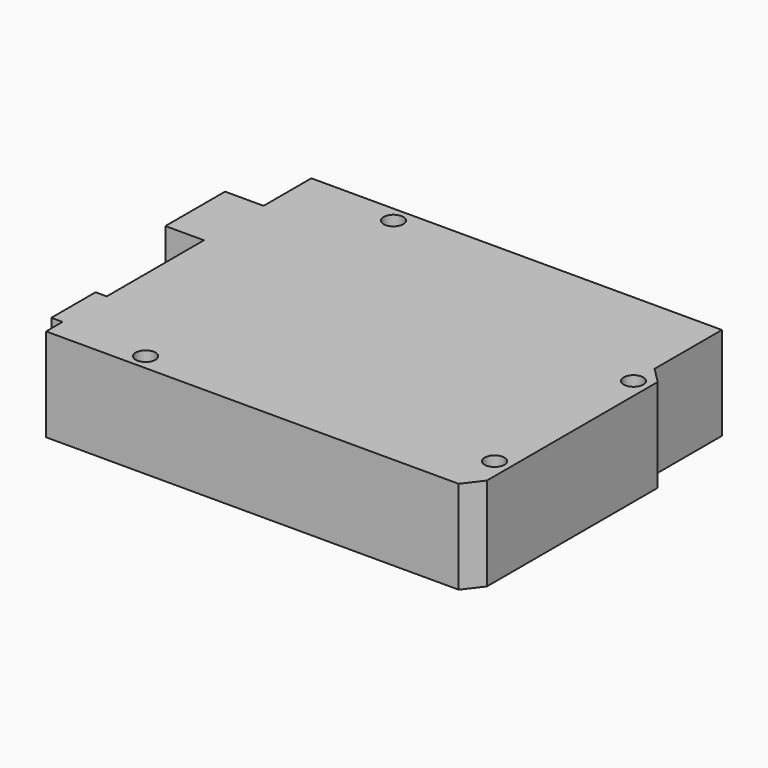
from build123d import *

# Parameters (mm, degrees)
F0_R     = 1.5875
F0_W     = 6.2
F0_H     = 12
F0_W_2   = 1.8
F0_H_2   = 8.9
F1_DEPTH = 15


with BuildPart() as f1:
    # F0 (on Top) → F1 (new body)
    with BuildSketch(Plane.XY):
        Polygon((-34.29, -26.67), (32.082409, -26.67), (34.29, -23.764476), (34.29, 10.575525), (31.75, 13.140604), (31.75, 26.67), (-34.29, 26.67), (-34.29, 17.07), (-34.29, 5.07), (-34.29, -14.47), (-34.29, -23.37), align=None)
        with Locations((-20.32, -24.13)):
            Circle(F0_R, mode=Mode.SUBTRACT)
        with Locations((31.75, -19.05)):
            Circle(F0_R, mode=Mode.SUBTRACT)
        with Locations((-19.05, 24.13)):
            Circle(F0_R, mode=Mode.SUBTRACT)
        with Locations((31.75, 8.89)):
            Circle(F0_R, mode=Mode.SUBTRACT)
        with Locations((-37.39, 11.07)):
            Rectangle(F0_W, F0_H)
        with Locations((-35.19, -18.92)):
            Rectangle(F0_W_2, F0_H_2)
    extrude(amount=F1_DEPTH)


solid = f1.part
